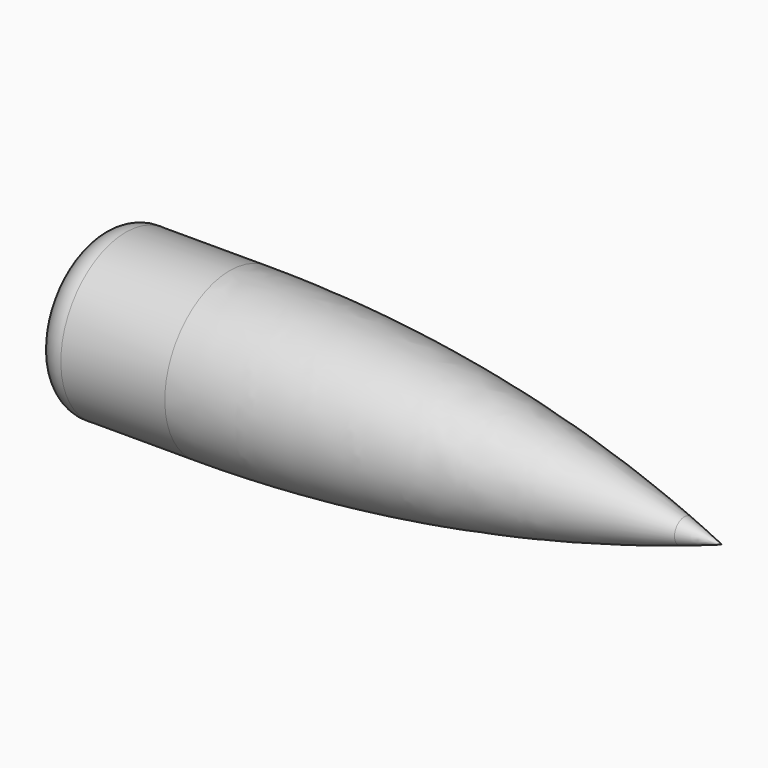
from build123d import *


with BuildPart() as f1:
    # F0 (on Front) → F1 (revolve)
    with BuildSketch(Plane.XZ):
        with BuildLine():
            Line((-16.660506, 3.449352), (-16.660506, 0))
            Line((-16.660506, 0), (19.140176, 0))
            Line((19.140176, 0), (19.140176, 0.745794))
            ThreePointArc((19.140176, 0.745794), (5.415341, 3.89523), (-8.626424, 4.953))
            Line((-8.626424, 4.953), (-14.976424, 4.953))
            ThreePointArc((-14.976424, 4.953), (-16.155085, 4.578189), (-16.660506, 3.449352))
        make_face()
    revolve(axis=Axis((2.389494, 0, 0), (1, 0, 0)))


with BuildPart() as f2:
    # F0 (on Front) → F2 (revolve)
    with BuildSketch(Plane.XZ):
        with BuildLine():
            Line((19.140176, 0.745794), (19.140176, 0))
            Line((19.140176, 0), (21.439494, 0))
            ThreePointArc((21.439494, 0), (20.292239, 0.38031), (19.140176, 0.745794))
        make_face()
    revolve(axis=Axis((2.389494, 0, 0), (1, 0, 0)))


solid = Compound([f1.part, f2.part])
